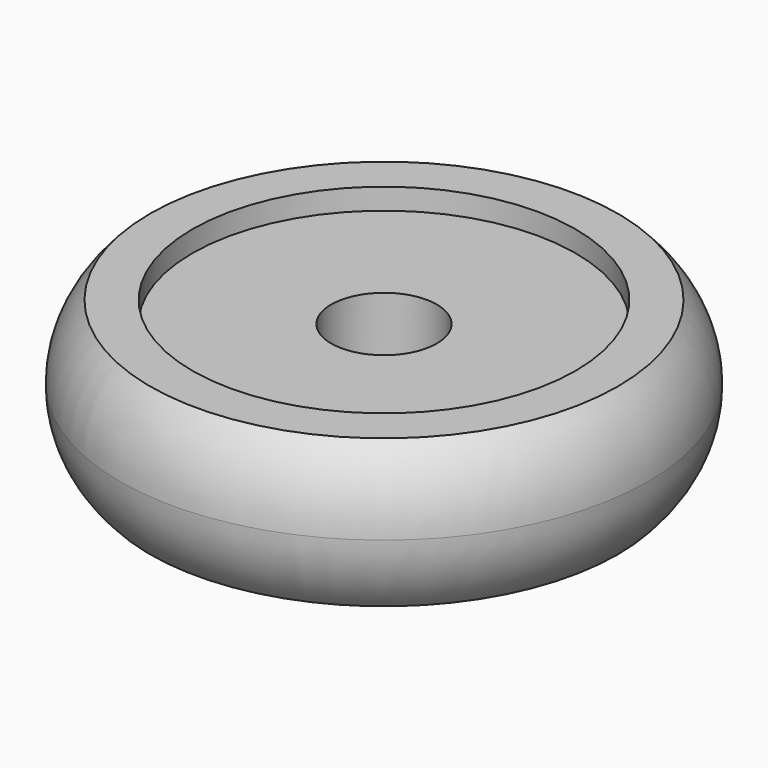
from build123d import *


with BuildPart() as f1:
    # F0 (on Front) → F1 (revolve)
    with BuildSketch(Plane.XZ):
        with BuildLine():
            ThreePointArc((11.070714, -3.5), (12.128908, -1.890295), (12.5, 0))
            ThreePointArc((12.5, 0), (12.128908, 1.890295), (11.070714, 3.5))
            Line((11.070714, 3.5), (9.070714, 3.5))
            Line((9.070714, 3.5), (9.070714, 2.5))
            Line((9.070714, 2.5), (2.5, 2.5))
            Line((2.5, 2.5), (2.5, 0))
            Line((2.5, 0), (2.5, -2.5))
            Line((2.5, -2.5), (9.070714, -2.5))
            Line((9.070714, -2.5), (9.070714, -3.5))
            Line((9.070714, -3.5), (11.070714, -3.5))
        make_face()
    revolve(axis=Axis((0, 0, 4.247276), (0, 0, 1)))


solid = f1.part
